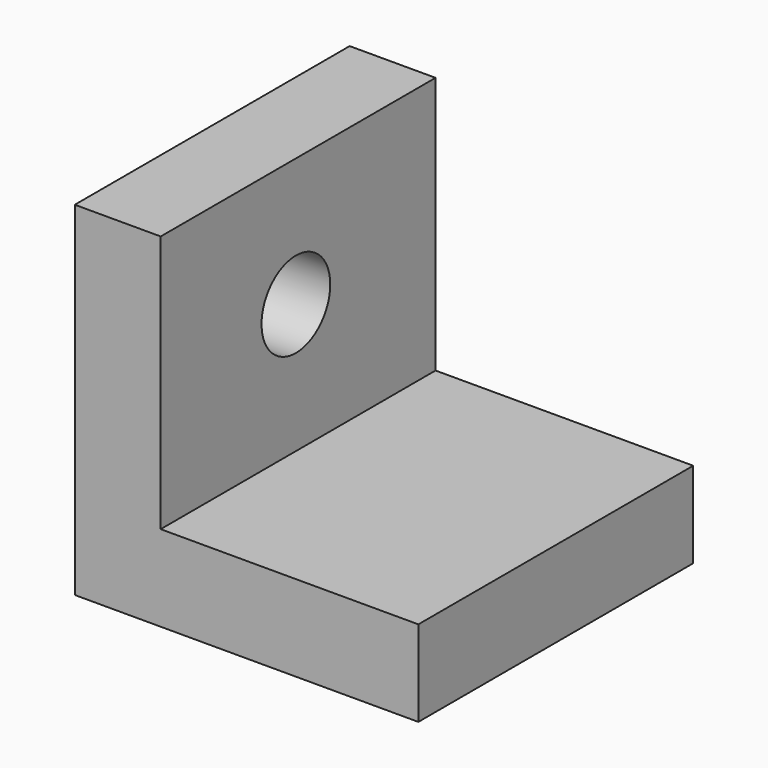
from build123d import *

# Parameters (mm, degrees)
F0_W     = 50.8
F0_H     = 50.8
F1_DEPTH = 50.8
F2_W     = 38.1
F2_H     = 38.1
F3_DEPTH = 61.214
F4_R     = 6.35
F5_DEPTH = 35.814


with BuildPart() as f1:
    # F0 (on Front) → F1 (new body)
    with BuildSketch(Plane.XZ):
        with Locations((-2.43758, 5.05671)):
            Rectangle(F0_W, F0_H)
    extrude(amount=F1_DEPTH)

    # F2 (on face) → F3 (cut)
    with BuildSketch(Plane.XZ.offset(50.8)):
        with Locations((3.91242, 11.40671)):
            Rectangle(F2_W, F2_H)
    extrude(amount=-F3_DEPTH, mode=Mode.SUBTRACT)

    # F4 (on face) → F5 (cut)
    with BuildSketch(Plane.YZ.offset(-15.13758)):
        with Locations((-25.809677, 11.470969)):
            Circle(F4_R)
    extrude(amount=-F5_DEPTH, mode=Mode.SUBTRACT)


solid = f1.part
